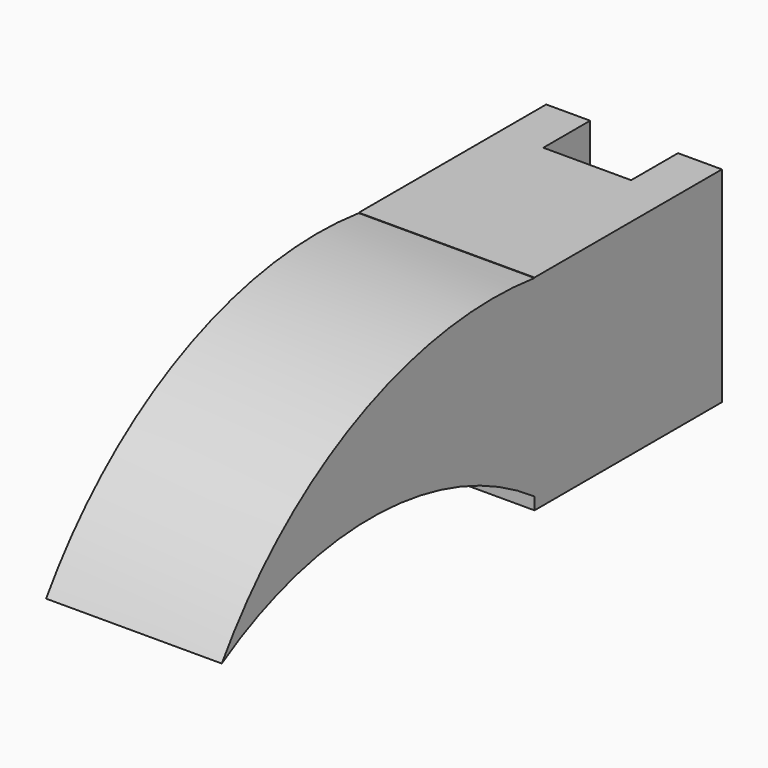
from build123d import *

# Parameters (mm, degrees)
F0_W     = 6
F0_H     = 7
F1_DEPTH = 8
F2_W     = 3
F2_H     = 7.5
F3_DEPTH = 2
F5_DEPTH = 3


with BuildPart() as f1:
    # F0 (on Front) → F1 (new body)
    with BuildSketch(Plane.XZ):
        with Locations((0, 13.483554)):
            Rectangle(F0_W, F0_H)
    extrude(amount=F1_DEPTH)

    # F2 (on Front) → F3 (cut)
    with BuildSketch(Plane.XZ):
        with Locations((0, 13.472562)):
            Rectangle(F2_W, F2_H)
    extrude(amount=F3_DEPTH, mode=Mode.SUBTRACT)

    # F4 (on Right) → F5 (join, symmetric)
    with BuildSketch(Plane.YZ):
        with BuildLine():
            Line((-7.866293, 10.309412), (-6.651026, 16.728764))
            ThreePointArc((-6.651026, 16.728764), (-14.93047, 16.076312), (-21.348331, 10.805075))
            ThreePointArc((-21.348331, 10.805075), (-14.532663, 12.587694), (-7.866293, 10.309412))
        make_face()
    extrude(amount=F5_DEPTH, both=True)


solid = f1.part
